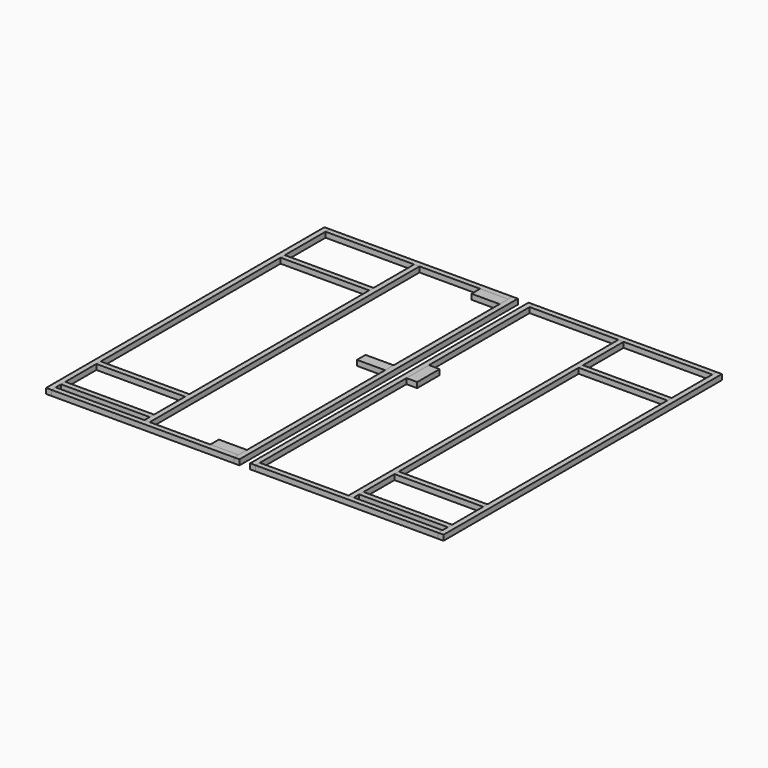
from build123d import *

# Parameters (mm, degrees)
F0_W      = 25.4
F0_H      = 1651
F1_DEPTH  = 25.4
F2_W      = 25.4
F2_H      = 25.4
F3_DEPTH  = 866.775
F4_W      = 25.4
F4_H      = 25.4
F5_DEPTH  = 1600.2
F6_W      = 25.4
F6_H      = 25.4
F7_DEPTH  = 420.6875
F10_W     = 133.35
F10_H     = 50.8
F10_W_2   = 50.8
F10_H_2   = 133.35
F11_DEPTH = 25.4


with BuildPart() as f1:
    # F0 (on Top) → F1 (new body)
    with BuildSketch(Plane.XY):
        with Locations((12.7, -825.5)):
            Rectangle(F0_W, F0_H)
        with Locations((904.875, -825.5)):
            Rectangle(F0_W, F0_H)
    extrude(amount=F1_DEPTH)


with BuildPart() as f3:
    # F2 (on face) → F3 (new body, through all)
    with BuildSketch(Plane.YZ.offset(25.4)):
        with Locations((-12.7, 12.7)):
            Rectangle(F2_W, F2_H)
        with Locations((-1638.3, 12.7)):
            Rectangle(F2_W, F2_H)
    extrude(amount=F3_DEPTH)


with BuildPart() as f5:
    # F4 (on face) → F5 (new body, through all)
    with BuildSketch(Plane(origin=(0, -1625.6, 0), x_dir=(-1, 0, 0), z_dir=(0, 1, 0))):
        with Locations((-458.7875, 12.7)):
            Rectangle(F4_W, F4_H)
    extrude(amount=F5_DEPTH)


with BuildPart() as f7:
    # F6 (on face) → F7 (new body, through all)
    with BuildSketch(Plane(origin=(892.175, 0, 0), x_dir=(0, -1, 0), z_dir=(-1, 0, 0))):
        with Locations((279.4, 12.7)):
            Rectangle(F6_W, F6_H)
        with Locations((1581.15, 12.7)):
            Rectangle(F6_W, F6_H)
        with Locations((1371.6, 12.7)):
            Rectangle(F6_W, F6_H)
    extrude(amount=F7_DEPTH)


with BuildPart() as f9_1:
    # F9: instance of F1
    add(f1.part.mirror(Plane(origin=(-25.4, -825.5, 12.7), x_dir=(0, -1, 0), z_dir=(-1, 0, 0))))


with BuildPart() as f9_2:
    # F9: instance of F7
    add(f7.part.mirror(Plane(origin=(-25.4, -825.5, 12.7), x_dir=(0, -1, 0), z_dir=(-1, 0, 0))))


with BuildPart() as f9_3:
    # F9: instance of F5
    add(f5.part.mirror(Plane(origin=(-25.4, -825.5, 12.7), x_dir=(0, -1, 0), z_dir=(-1, 0, 0))))


with BuildPart() as f9_4:
    # F9: instance of F3
    add(f3.part.mirror(Plane(origin=(-25.4, -825.5, 12.7), x_dir=(0, -1, 0), z_dir=(-1, 0, 0))))


with BuildPart() as f11:
    # F10 (on face) → F11 (new body)
    with BuildSketch(Plane.XY.offset(25.4)):
        with Locations((-142.875, -50.8)):
            Rectangle(F10_W, F10_H)
        with Locations((-142.875, -1600.2)):
            Rectangle(F10_W, F10_H)
        with Locations((-142.875, -730.25)):
            Rectangle(F10_W, F10_H)
        with Locations((50.8, -688.975)):
            Rectangle(F10_W_2, F10_H_2)
    extrude(amount=-F11_DEPTH)


solid = Compound([f1.part, f3.part, f5.part, f7.part, f9_1.part, f9_2.part, f9_3.part, f9_4.part, f11.part])
